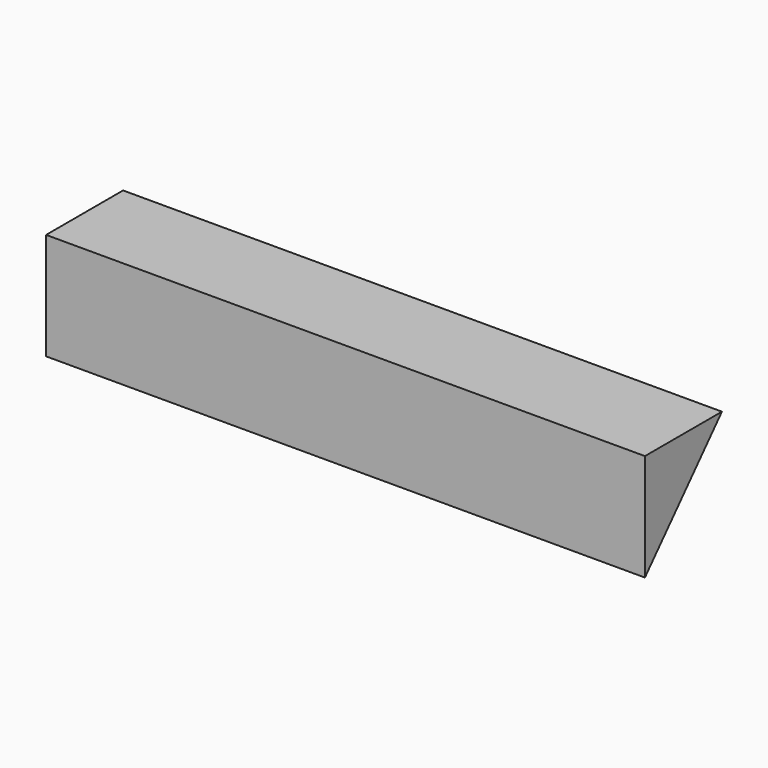
from build123d import *

# Parameters (mm, degrees)
F1_DEPTH = 2800
F2_W     = 158.6351394653
F2_H     = 590.8519327641
F3_DEPTH = 5


with BuildPart() as f1:
    # F0 (on Right) → F1 (new body)
    with BuildSketch(Plane.YZ):
        Polygon((450, 0), (0, 0), (0, -500), align=None)
    extrude(amount=F1_DEPTH)

    # F2 (on face) → F3 (cut)
    with BuildSketch(Plane(origin=(0, 248.6187845304, -223.7569060773), x_dir=(-1, 0, 0), z_dir=(0, 0.7432941462, -0.6689647316))):
        with Locations((-2670.4637266016, -37.135258317)):
            Rectangle(F2_W, F2_H)
        with Locations((-2388.5237266016, -37.135258317)):
            Rectangle(F2_W, F2_H)
        with Locations((-2106.5837266016, -37.135258317)):
            Rectangle(F2_W, F2_H)
        with Locations((-1824.6437266016, -37.135258317)):
            Rectangle(F2_W, F2_H)
        with Locations((-1542.7037266016, -37.135258317)):
            Rectangle(F2_W, F2_H)
        with Locations((-1260.7637266016, -37.135258317)):
            Rectangle(F2_W, F2_H)
        with Locations((-978.8237266016, -37.135258317)):
            Rectangle(F2_W, F2_H)
        with Locations((-696.8837266016, -37.135258317)):
            Rectangle(F2_W, F2_H)
        with Locations((-414.9437266016, -37.135258317)):
            Rectangle(F2_W, F2_H)
        with Locations((-133.0037266016, -37.135258317)):
            Rectangle(F2_W, F2_H)
    extrude(amount=-F3_DEPTH, mode=Mode.SUBTRACT)


solid = f1.part
